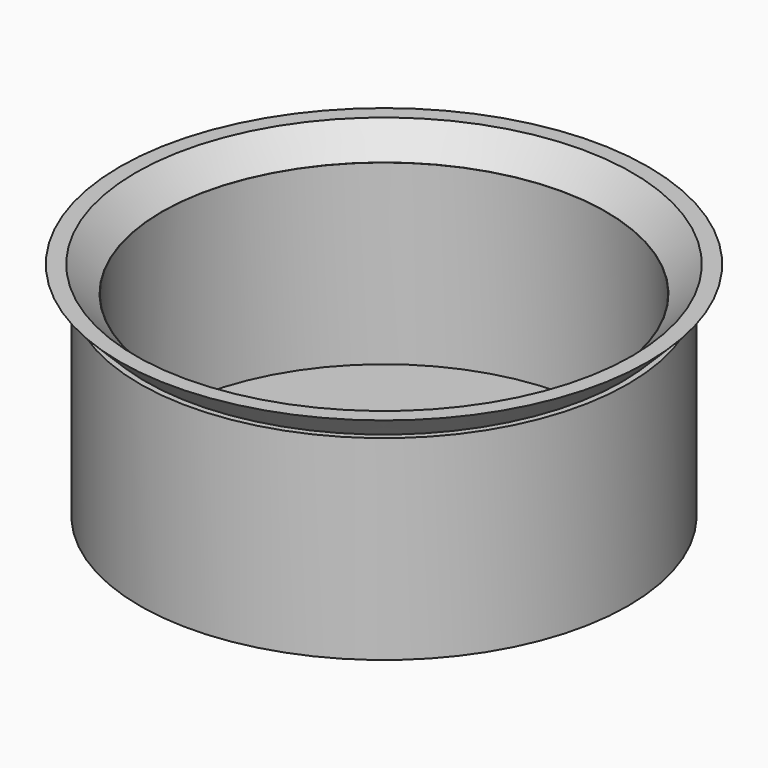
from build123d import *

# Parameters (mm, degrees)
SKETCH125_R     = 34.925
PAD046_DEPTH    = 27.94
SKETCH126_R     = 31.75
POCKET046_DEPTH = 25.4
SKETCH127_R     = 9.6139
POCKET047_DEPTH = 27.941


with BuildPart() as part:
    # Sketch125 → Pad046 (new body)
    with BuildSketch(Plane.XY):
        Circle(SKETCH125_R)
    extrude(amount=PAD046_DEPTH)

    # Sketch126 (on Face3 of Pad046) → Pocket046 (cut)
    with BuildSketch(Plane.XY.offset(27.94)):
        Circle(SKETCH126_R)
    extrude(amount=-POCKET046_DEPTH, mode=Mode.SUBTRACT)

    # Sketch127 (on Face2 of Pocket046) → Pocket047 (cut, through all)
    with BuildSketch(Plane(origin=(0, 0, 0), x_dir=(1, 0, 0), z_dir=(0, 0, -1))):
        Circle(SKETCH127_R)
    extrude(amount=-POCKET047_DEPTH, mode=Mode.SUBTRACT)

    # Sketch131 → Revolution001 (revolve)
    with BuildSketch(Plane.XZ):
        Polygon((34.041662, 27.921203), (37.778515, 31.658056), (35.500414, 31.658056), (31.763561, 27.921203), align=None)
    revolve(axis=Axis((0, 0, 0), (0, 0, 1)))


solid = part.part
